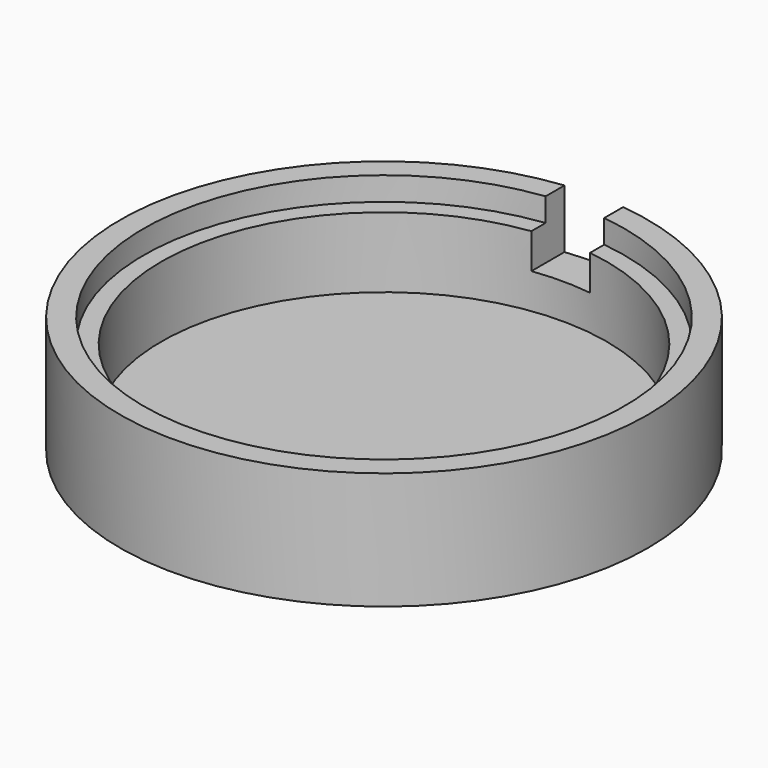
from build123d import *

# Parameters (mm, degrees)
SKETCH_R      = 22.5
PAD_DEPTH     = 2
SKETCH001_R   = 22.5
SKETCH001_R_2 = 20.5
PAD001_DEPTH  = 10
SKETCH002_R   = 22.5
SKETCH002_R_2 = 19
PAD002_DEPTH  = 8
SKETCH003_W   = 5
SKETCH003_H   = 20
POCKET_DEPTH  = 22.501


with BuildPart() as part:
    # Sketch → Pad (new body)
    with BuildSketch(Plane.XY):
        Circle(SKETCH_R)
    extrude(amount=PAD_DEPTH)

    # Sketch001 → Pad001 (join)
    with BuildSketch(Plane.XY):
        Circle(SKETCH001_R)
        Circle(SKETCH001_R_2, mode=Mode.SUBTRACT)
    extrude(amount=PAD001_DEPTH)

    # Sketch002 → Pad002 (join)
    with BuildSketch(Plane.XY):
        Circle(SKETCH002_R)
        Circle(SKETCH002_R_2, mode=Mode.SUBTRACT)
    extrude(amount=PAD002_DEPTH)

    # Sketch003 → Pocket (cut, through all)
    with BuildSketch(Plane.XZ):
        with Locations((0, 15)):
            Rectangle(SKETCH003_W, SKETCH003_H)
    extrude(amount=-POCKET_DEPTH, mode=Mode.SUBTRACT)


solid = part.part
